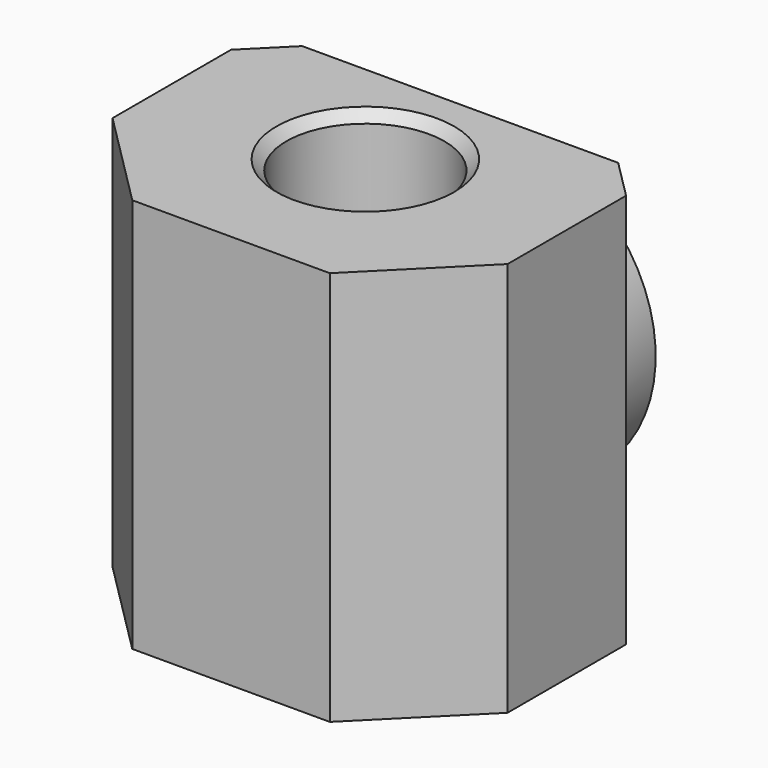
from build123d import *

# Parameters (mm, degrees)
SKETCH_W        = 20
SKETCH_H        = 14.5
SKETCH_R        = 4
PAD_DEPTH       = 20
CHAMFER_SIZE    = 2
CHAMFER001_SIZE = 5
CHAMFER002_SIZE = 0.5
SKETCH001_R     = 7.5
PAD001_DEPTH    = 3


with BuildPart() as part:
    # Sketch → Pad (new body)
    with BuildSketch(Plane.XY):
        with Locations((0, -1.25)):
            Rectangle(SKETCH_W, SKETCH_H)
        Circle(SKETCH_R, mode=Mode.SUBTRACT)
    extrude(amount=PAD_DEPTH)

    # Chamfer
    chamfer_edges = [part.edges().sort_by_distance(p)[0] for p in [
        (10, 6, 10),
        (-10, 6, 10),
    ]]
    chamfer(chamfer_edges, length=CHAMFER_SIZE)

    # Chamfer001
    chamfer001_edges = [part.edges().sort_by_distance(p)[0] for p in [
        (10, -8.5, 10),
        (-10, -8.5, 10),
    ]]
    chamfer(chamfer001_edges, length=CHAMFER001_SIZE)

    # Chamfer002
    chamfer002_edges = [part.edges().sort_by_distance(p)[0] for p in [
        (-4, 0, 20),
        (-4, 0, 0),
    ]]
    chamfer(chamfer002_edges, length=CHAMFER002_SIZE)

    # Sketch001 → Pad001 (new body)
    with BuildSketch(Plane(origin=(0, 6, 0), x_dir=(-1, 0, 0), z_dir=(0, 1, 0))):
        with Locations((0, 10)):
            Circle(SKETCH001_R)
    extrude(amount=PAD001_DEPTH)


solid = part.part
